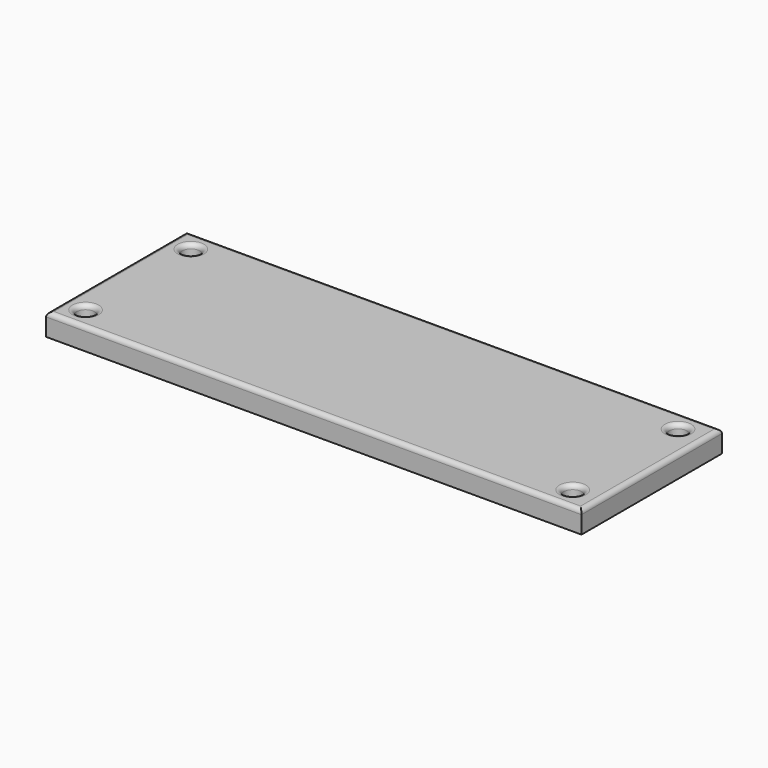
from build123d import *

# Parameters (mm, degrees)
F0_W     = 122
F0_H     = 40
F0_R     = 2
F1_DEPTH = 5
F2_R     = 1


with BuildPart() as f1:
    # F0 (on Top) → F1 (new body)
    with BuildSketch(Plane.XY):
        Rectangle(F0_W, F0_H)
        with Locations((-56, -15)):
            Circle(F0_R, mode=Mode.SUBTRACT)
        with Locations((55, -15)):
            Circle(F0_R, mode=Mode.SUBTRACT)
        with Locations((-56, 15)):
            Circle(F0_R, mode=Mode.SUBTRACT)
        with Locations((55, 15)):
            Circle(F0_R, mode=Mode.SUBTRACT)
    extrude(amount=F1_DEPTH)

    # F2
    f2_edges = [f1.edges().sort_by_distance(p)[0] for p in [
        (0, 20, 5),
        (-61, 0, 5),
        (0, -20, 5),
        (61, 0, 5),
        (-58, -15, 5),
        (53, -15, 5),
        (-58, 15, 5),
        (53, 15, 5),
    ]]
    fillet(f2_edges, radius=F2_R)


solid = f1.part
